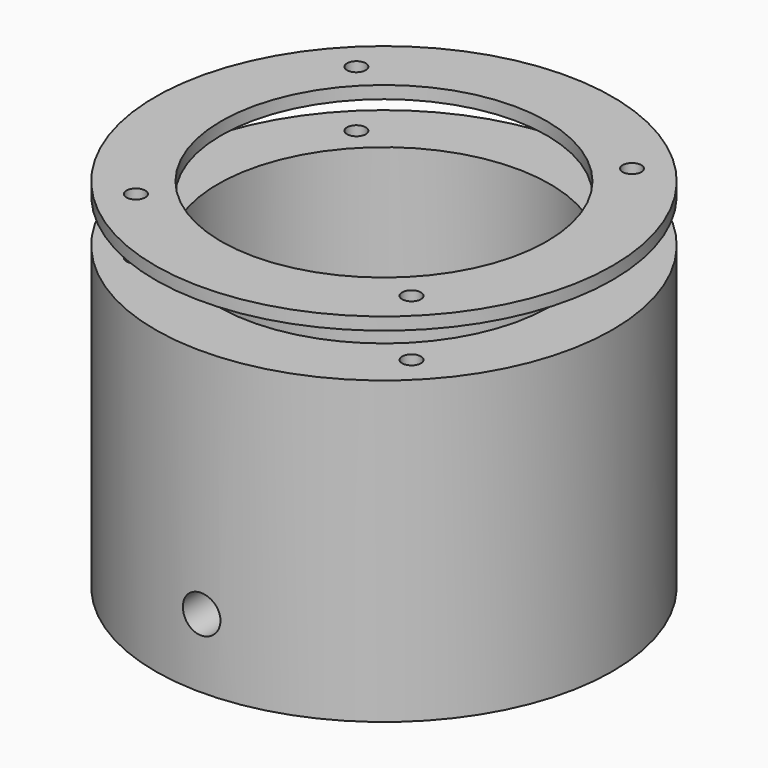
from build123d import *

# Parameters (mm, degrees)
CYLINDER010_R          = 1.5
CYLINDER010_DEPTH      = 10
CYLINDER008_R          = 1.5
CYLINDER008_DEPTH      = 10
CYLINDER009_R          = 1.5
CYLINDER009_DEPTH      = 10
CYLINDER011_R          = 1.5
CYLINDER011_DEPTH      = 10
CYLINDER007_R          = 26
CYLINDER007_DEPTH      = 2
CYLINDER006_R          = 36.5
CYLINDER006_DEPTH      = 2
CYLINDER012_R          = 3
CYLINDER012_DEPTH      = 20
CYLINDER012_ROLL_ANGLE = -90
CYLINDER004_R          = 1.5
CYLINDER004_DEPTH      = 10
CYLINDER002_R          = 1.5
CYLINDER002_DEPTH      = 10
CYLINDER003_R          = 1.5
CYLINDER003_DEPTH      = 10
CYLINDER005_R          = 1.5
CYLINDER005_DEPTH      = 10
CYLINDER_R             = 26.5
CYLINDER_DEPTH         = 45
CYLINDER001_R          = 36.5
CYLINDER001_DEPTH      = 48


with BuildPart() as cylinder010:
    # Cylinder010 → Cylinder010 (new body)
    with BuildSketch(Plane(origin=(-2, -2, 63), x_dir=(1, 0, 0), z_dir=(0, 0, 1))):
        Circle(CYLINDER010_R)
    extrude(amount=CYLINDER010_DEPTH)


with BuildPart() as cylinder008:
    # Cylinder008 → Cylinder008 (new body)
    with BuildSketch(Plane(origin=(42, 42, 63), x_dir=(1, 0, 0), z_dir=(0, 0, 1))):
        Circle(CYLINDER008_R)
    extrude(amount=CYLINDER008_DEPTH)


with BuildPart() as cylinder009:
    # Cylinder009 → Cylinder009 (new body)
    with BuildSketch(Plane(origin=(-2, 42, 63), x_dir=(1, 0, 0), z_dir=(0, 0, 1))):
        Circle(CYLINDER009_R)
    extrude(amount=CYLINDER009_DEPTH)


with BuildPart() as fusion001:
    # Cylinder011 → Cylinder011 (new body)
    with BuildSketch(Plane(origin=(42, -2, 63), x_dir=(1, 0, 0), z_dir=(0, 0, 1))):
        Circle(CYLINDER011_R)
    extrude(amount=CYLINDER011_DEPTH)

    # Fusion001: union Cylinder010, Cylinder008, Cylinder009
    add(cylinder010.part)
    add(cylinder008.part)
    add(cylinder009.part)


with BuildPart() as cylinder007:
    # Cylinder007 → Cylinder007 (new body)
    with BuildSketch(Plane(origin=(20, 20, 20), x_dir=(1, 0, 0), z_dir=(0, 0, 1))):
        Circle(CYLINDER007_R)
    extrude(amount=CYLINDER007_DEPTH)


with BuildPart() as cut003:
    # Cylinder006 → Cylinder006 (new body)
    with BuildSketch(Plane(origin=(20, 20, 20), x_dir=(1, 0, 0), z_dir=(0, 0, 1))):
        Circle(CYLINDER006_R)
    extrude(amount=CYLINDER006_DEPTH)

    # Cut002: cut Cylinder007
    add(cylinder007.part, mode=Mode.SUBTRACT)


with BuildPart() as cut003_1:
    # Cut002 placement: moved
    add(cut003.part.moved(Location((0, 0, 50))))

    # Cut003: cut Fusion001
    add(fusion001.part, mode=Mode.SUBTRACT)


with BuildPart() as cylinder012:
    # Cylinder012 → Cylinder012 (new body)
    with BuildSketch(Plane.XY):
        Circle(CYLINDER012_R)
    extrude(amount=CYLINDER012_DEPTH)


with BuildPart() as cylinder012_1:
    # Cylinder012 roll: moved
    add(cylinder012.part.rotate(Axis((0, 0, 0), (1, 0, 0)), CYLINDER012_ROLL_ANGLE))


with BuildPart() as cylinder012_2:
    # Cylinder012 placement: moved
    add(cylinder012_1.part.moved(Location((20, -20, 26))))


with BuildPart() as cylinder004:
    # Cylinder004 → Cylinder004 (new body)
    with BuildSketch(Plane(origin=(-2, -2, 63), x_dir=(1, 0, 0), z_dir=(0, 0, 1))):
        Circle(CYLINDER004_R)
    extrude(amount=CYLINDER004_DEPTH)


with BuildPart() as cylinder002:
    # Cylinder002 → Cylinder002 (new body)
    with BuildSketch(Plane(origin=(42, 42, 63), x_dir=(1, 0, 0), z_dir=(0, 0, 1))):
        Circle(CYLINDER002_R)
    extrude(amount=CYLINDER002_DEPTH)


with BuildPart() as cylinder003:
    # Cylinder003 → Cylinder003 (new body)
    with BuildSketch(Plane(origin=(-2, 42, 63), x_dir=(1, 0, 0), z_dir=(0, 0, 1))):
        Circle(CYLINDER003_R)
    extrude(amount=CYLINDER003_DEPTH)


with BuildPart() as fusion:
    # Cylinder005 → Cylinder005 (new body)
    with BuildSketch(Plane(origin=(42, -2, 63), x_dir=(1, 0, 0), z_dir=(0, 0, 1))):
        Circle(CYLINDER005_R)
    extrude(amount=CYLINDER005_DEPTH)

    # Fusion: union Cylinder004, Cylinder002, Cylinder003
    add(cylinder004.part)
    add(cylinder002.part)
    add(cylinder003.part)


with BuildPart() as fusion_1:
    # Fusion placement: moved
    add(fusion.part.moved(Location((0, 0, -10))))


with BuildPart() as cylinder:
    # Cylinder → Cylinder (new body)
    with BuildSketch(Plane(origin=(20, 20, 20), x_dir=(1, 0, 0), z_dir=(0, 0, 1))):
        Circle(CYLINDER_R)
    extrude(amount=CYLINDER_DEPTH)


with BuildPart() as cut004:
    # Cylinder001 → Cylinder001 (new body)
    with BuildSketch(Plane(origin=(20, 20, 15), x_dir=(1, 0, 0), z_dir=(0, 0, 1))):
        Circle(CYLINDER001_R)
    extrude(amount=CYLINDER001_DEPTH)

    # Cut: cut Cylinder
    add(cylinder.part, mode=Mode.SUBTRACT)

    # Cut001: cut Fusion
    add(fusion_1.part, mode=Mode.SUBTRACT)

    # Cut004: cut Cylinder012
    add(cylinder012_2.part, mode=Mode.SUBTRACT)


solid = Compound([cut003_1.part, cut004.part])
